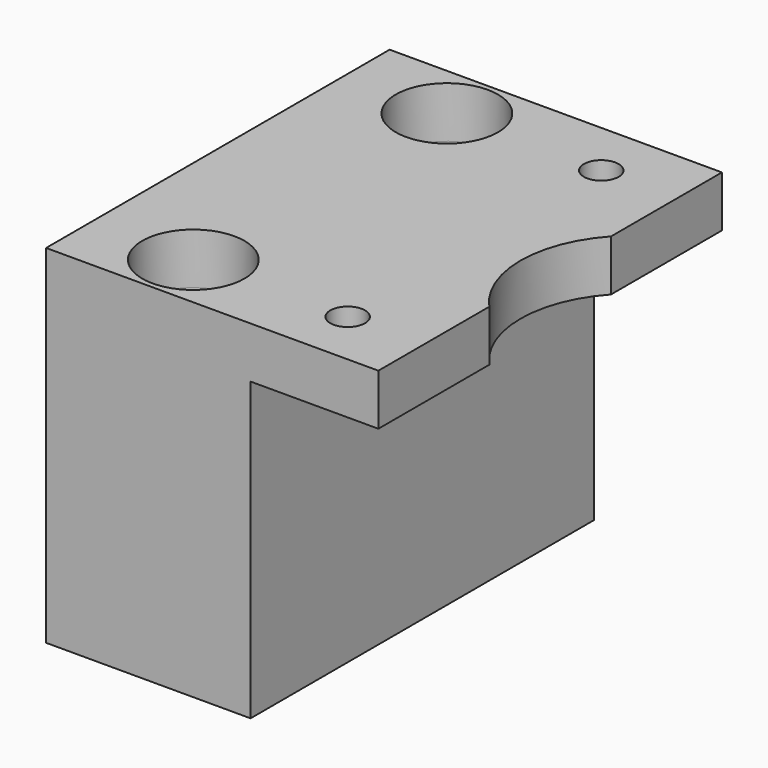
from build123d import *

# Parameters (mm, degrees)
F1_DEPTH  = 42
F2_R      = 1.7
F2_R_2    = 11
F3_DEPTH  = 5.001
F4_W      = 42
F4_H      = 5
F5_DEPTH  = 20
F6_R      = 5
F6_R_2    = 2.75
F7_DEPTH  = 19
F8_W      = 20
F8_H      = 42
F8_R      = 5
F8_R_2    = 2.75
F9_DEPTH  = 29
F10_DEPTH = 9


with BuildPart() as f1:
    # F0 (on Front) → F1 (new body)
    with BuildSketch(Plane.XZ):
        Polygon((12.5, 5), (8.5, 5), (0, 5), (0, 0), (12.5, 0), align=None)
    extrude(amount=-F1_DEPTH)

    # F2 (on face) → F3 (cut, through all)
    with BuildSketch(Plane(origin=(0, 0, 0), x_dir=(1, 0, 0), z_dir=(0, 0, -1))):
        with Locations((5.1, -5.5)):
            Circle(F2_R)
        with Locations((5.1, -36.5)):
            Circle(F2_R)
        with Locations((20.6, -21)):
            Circle(F2_R_2)
    extrude(amount=-F3_DEPTH, mode=Mode.SUBTRACT)

    # F4 (on face) → F5 (join)
    with BuildSketch(Plane(origin=(0, 0, 0), x_dir=(0, -1, 0), z_dir=(-1, 0, 0))):
        with Locations((-21, 2.5)):
            Rectangle(F4_W, F4_H)
    extrude(amount=F5_DEPTH)

    # F6 (on face) → F7 (cut)
    with BuildSketch(Plane.XY.offset(5)):
        with Locations((-10, 36.5)):
            Circle(F6_R)
        with Locations((-10, 36.5)):
            Circle(F6_R_2, mode=Mode.SUBTRACT)
        with Locations((-10, 5.5)):
            Circle(F6_R)
        with Locations((-10, 5.5)):
            Circle(F6_R_2, mode=Mode.SUBTRACT)
        with Locations((-10, 5.5)):
            Circle(F6_R_2)
        with Locations((-10, 36.5)):
            Circle(F6_R_2)
    extrude(amount=-F7_DEPTH, mode=Mode.SUBTRACT)

    # F8 (on face) → F9 (join)
    with BuildSketch(Plane(origin=(0, 0, 0), x_dir=(1, 0, 0), z_dir=(0, 0, -1))):
        with Locations((-10, -21)):
            Rectangle(F8_W, F8_H)
        with Locations((-10, -36.5)):
            Circle(F8_R, mode=Mode.SUBTRACT)
        with Locations((-10, -5.5)):
            Circle(F8_R_2, mode=Mode.SUBTRACT)
        with Locations((-10, -36.5)):
            Circle(F8_R_2)
        with Locations((-10, -36.5)):
            Circle(F8_R)
        with Locations((-10, -36.5)):
            Circle(F8_R_2, mode=Mode.SUBTRACT)
    extrude(amount=F9_DEPTH)

    # F8 (on face) → F10 (cut)
    with BuildSketch(Plane(origin=(0, 0, 0), x_dir=(1, 0, 0), z_dir=(0, 0, -1))):
        with Locations((-10, -36.5)):
            Circle(F8_R)
        with Locations((-10, -36.5)):
            Circle(F8_R_2, mode=Mode.SUBTRACT)
        with Locations((-10, -5.5)):
            Circle(F8_R)
        with Locations((-10, -5.5)):
            Circle(F8_R_2, mode=Mode.SUBTRACT)
    extrude(amount=F10_DEPTH, mode=Mode.SUBTRACT)


solid = f1.part
